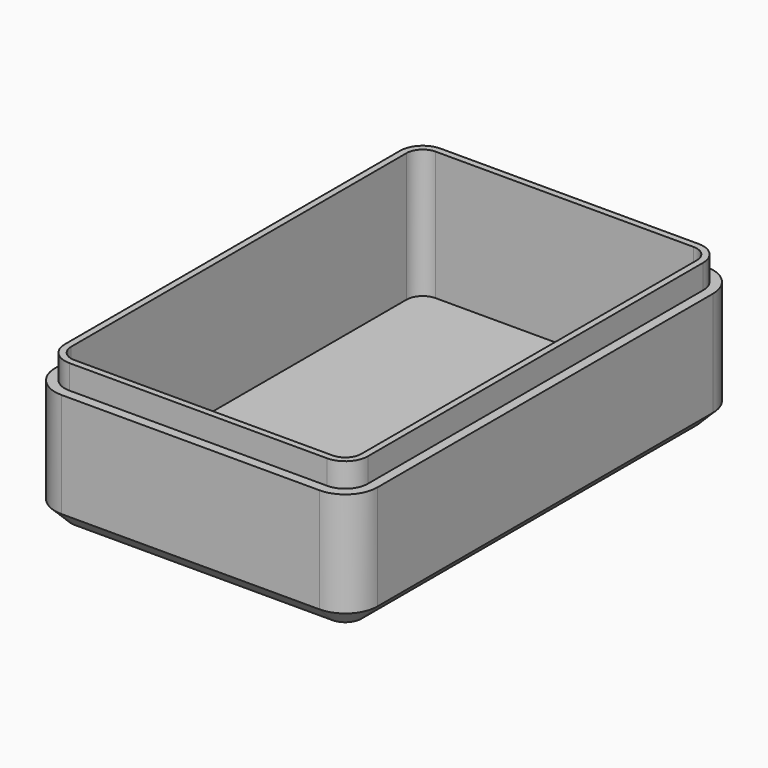
from build123d import *

# Parameters (mm, degrees)
PAD_DEPTH    = 15
POCKET_DEPTH = 13
PAD001_DEPTH = 3
CHAMFER_SIZE = 2


with BuildPart() as part:
    # Sketch → Pad (new body)
    with BuildSketch(Plane.XY):
        with BuildLine():
            Line((-20, 26), (-20, -26))
            ThreePointArc((-20, -26), (-18.828427, -28.828427), (-16, -30))
            Line((-16, -30), (16, -30))
            ThreePointArc((16, -30), (18.828427, -28.828427), (20, -26))
            Line((20, -26), (20, 26))
            ThreePointArc((20, 26), (18.828427, 28.828427), (16, 30))
            Line((16, 30), (-16, 30))
            ThreePointArc((-16, 30), (-18.828427, 28.828427), (-20, 26))
        make_face()
    extrude(amount=PAD_DEPTH)

    # Sketch001 (on Face10 of Pad) → Pocket (cut)
    with BuildSketch(Plane.XY.offset(15)):
        with BuildLine():
            Line((-18, 26), (-18, -26))
            ThreePointArc((-18, -26), (-17.414214, -27.414214), (-16, -28))
            Line((-16, -28), (16, -28))
            ThreePointArc((16, -28), (17.414214, -27.414214), (18, -26))
            Line((18, -26), (18, 26))
            ThreePointArc((18, 26), (17.414214, 27.414214), (16, 28))
            Line((16, 28), (-16, 28))
            ThreePointArc((-16, 28), (-17.414214, 27.414214), (-18, 26))
        make_face()
    extrude(amount=-POCKET_DEPTH, mode=Mode.SUBTRACT)

    # Sketch002 (on Face5 of Pocket) → Pad001 (join)
    with BuildSketch(Plane.XY.offset(15)):
        with BuildLine():
            Line((-18.8, 26), (-18.8, -26))
            ThreePointArc((-18.8, -26), (-17.979899, -27.979899), (-16, -28.8))
            Line((-16, -28.8), (16, -28.8))
            ThreePointArc((16, -28.8), (17.979899, -27.979899), (18.8, -26))
            Line((18.8, -26), (18.8, 26))
            ThreePointArc((18.8, 26), (17.979899, 27.979899), (16, 28.8))
            Line((16, 28.8), (-16, 28.8))
            ThreePointArc((-16, 28.8), (-17.979899, 27.979899), (-18.8, 26))
        make_face()
        with BuildLine():
            Line((-18, 26), (-18, -26))
            ThreePointArc((-18, -26), (-17.414214, -27.414214), (-16, -28))
            Line((-16, -28), (16, -28))
            ThreePointArc((16, -28), (17.414214, -27.414214), (18, -26))
            Line((18, -26), (18, 26))
            ThreePointArc((18, 26), (17.414214, 27.414214), (16, 28))
            Line((16, 28), (-16, 28))
            ThreePointArc((-16, 28), (-17.414214, 27.414214), (-18, 26))
        make_face(mode=Mode.SUBTRACT)
    extrude(amount=PAD001_DEPTH)

    # Chamfer
    chamfer_edges = [part.edges().sort_by_distance(p)[0] for p in [
        (0, -30, 0),
        (18.828427, -28.828427, 0),
        (20, 0, 0),
        (18.828427, 28.828427, 0),
        (0, 30, 0),
        (-18.828427, 28.828427, 0),
        (-20, 0, 0),
        (-18.828427, -28.828427, 0),
    ]]
    chamfer(chamfer_edges, length=CHAMFER_SIZE)


solid = part.part
